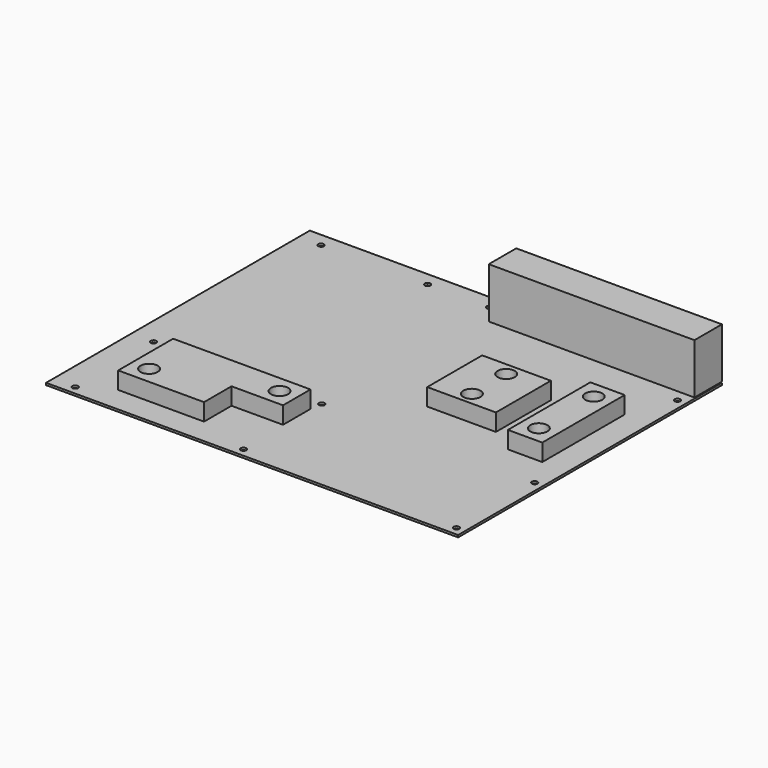
from build123d import *

# Parameters (mm, degrees)
F0_W     = 304.8
F0_H     = 243.84
F0_R     = 2.0955
F1_DEPTH = 1.5748
F2_W     = 152.146
F2_H     = 25.4
F3_DEPTH = 37.338
F4_W     = 50.8
F4_H     = 50.8
F4_R     = 6.35
F5_DEPTH = 12.7
F6_W     = 25.4
F6_H     = 76.2
F6_R     = 6.35
F7_DEPTH = 12.7
F8_R     = 6.35
F9_DEPTH = 12.7


with BuildPart() as f1:
    # F0 (on Top) → F1 (new body)
    with BuildSketch(Plane.XY):
        with Locations((-152.4, 121.92)):
            Rectangle(F0_W, F0_H)
        with Locations((-288.29, 6.35)):
            Circle(F0_R, mode=Mode.SUBTRACT)
        with Locations((-163.83, 6.35)):
            Circle(F0_R, mode=Mode.SUBTRACT)
        with Locations((-288.29, 78.74)):
            Circle(F0_R, mode=Mode.SUBTRACT)
        with Locations((-163.83, 78.74)):
            Circle(F0_R, mode=Mode.SUBTRACT)
        with Locations((-6.35, 6.35)):
            Circle(F0_R, mode=Mode.SUBTRACT)
        with Locations((-6.35, 78.74)):
            Circle(F0_R, mode=Mode.SUBTRACT)
        with Locations((-288.29, 233.68)):
            Circle(F0_R, mode=Mode.SUBTRACT)
        with Locations((-209.55, 233.68)):
            Circle(F0_R, mode=Mode.SUBTRACT)
        with Locations((-163.83, 233.68)):
            Circle(F0_R, mode=Mode.SUBTRACT)
        with Locations((-6.35, 210.82)):
            Circle(F0_R, mode=Mode.SUBTRACT)
    extrude(amount=F1_DEPTH)

    # F2 (on face) → F3 (join)
    with BuildSketch(Plane.XY.offset(1.5748)):
        with Locations((-76.9366, 232.283)):
            Rectangle(F2_W, F2_H)
    extrude(amount=F3_DEPTH)

    # F4 (on face) → F5 (join)
    with BuildSketch(Plane.XY.offset(1.5748)):
        with Locations((-88.9, 139.7)):
            Rectangle(F4_W, F4_H)
        with Locations((-88.9, 123.825)):
            Circle(F4_R, mode=Mode.SUBTRACT)
        with Locations((-88.9, 155.575)):
            Circle(F4_R, mode=Mode.SUBTRACT)
    extrude(amount=F5_DEPTH)

    # F6 (on face) → F7 (join)
    with BuildSketch(Plane.XY.offset(1.5748)):
        with Locations((-31.75, 139.7)):
            Rectangle(F6_W, F6_H)
        with Locations((-31.75, 114.3)):
            Circle(F6_R, mode=Mode.SUBTRACT)
        with Locations((-31.75, 165.1)):
            Circle(F6_R, mode=Mode.SUBTRACT)
    extrude(amount=F7_DEPTH)

    # F8 (on face) → F9 (join)
    with BuildSketch(Plane.XY.offset(1.5748)):
        Polygon((-165.1, 69.85), (-266.7, 69.85), (-266.7, 19.05), (-203.2, 19.05), (-203.2, 44.45), (-165.1, 44.45), align=None)
        with Locations((-254, 31.75)):
            Circle(F8_R, mode=Mode.SUBTRACT)
        with Locations((-177.8, 57.15)):
            Circle(F8_R, mode=Mode.SUBTRACT)
    extrude(amount=F9_DEPTH)


solid = f1.part
